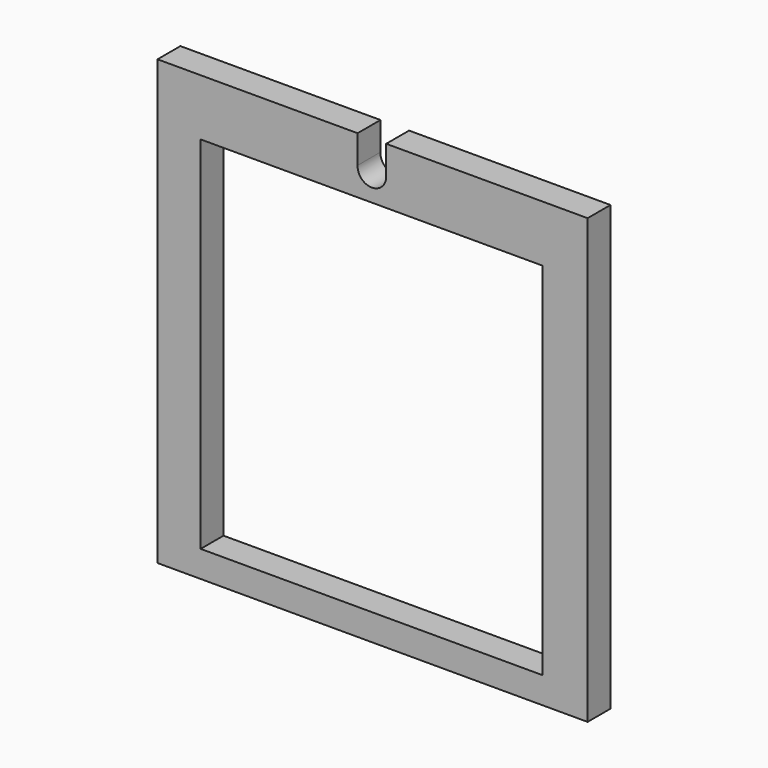
from build123d import *

# Parameters (mm, degrees)
F0_W     = 119.533546
F0_H     = 126
F1_DEPTH = 5


with BuildPart() as f1:
    # F0 (on Front) → F1 (new body, symmetric)
    with BuildSketch(Plane.XZ):
        with BuildLine():
            Line((-4.995314, 77.595041), (-74.927325, 77.595041))
            Line((-74.927325, 77.595041), (-74.927325, -77.404959))
            Line((-74.927325, -77.404959), (75.404947, -77.404959))
            Line((75.404947, -77.404959), (75.404947, 77.595041))
            Line((75.404947, 77.595041), (4.998789, 77.595041))
            Line((4.998789, 77.595041), (4.998789, 67.587671))
            ThreePointArc((4.998789, 67.587671), (-0.053221, 62.477928), (-4.995314, 67.694056))
            Line((-4.995314, 67.694056), (-4.995314, 77.595041))
        make_face()
        with Locations((-0.083085, -5.143807)):
            Rectangle(F0_W, F0_H, mode=Mode.SUBTRACT)
    extrude(amount=F1_DEPTH, both=True)


solid = f1.part
